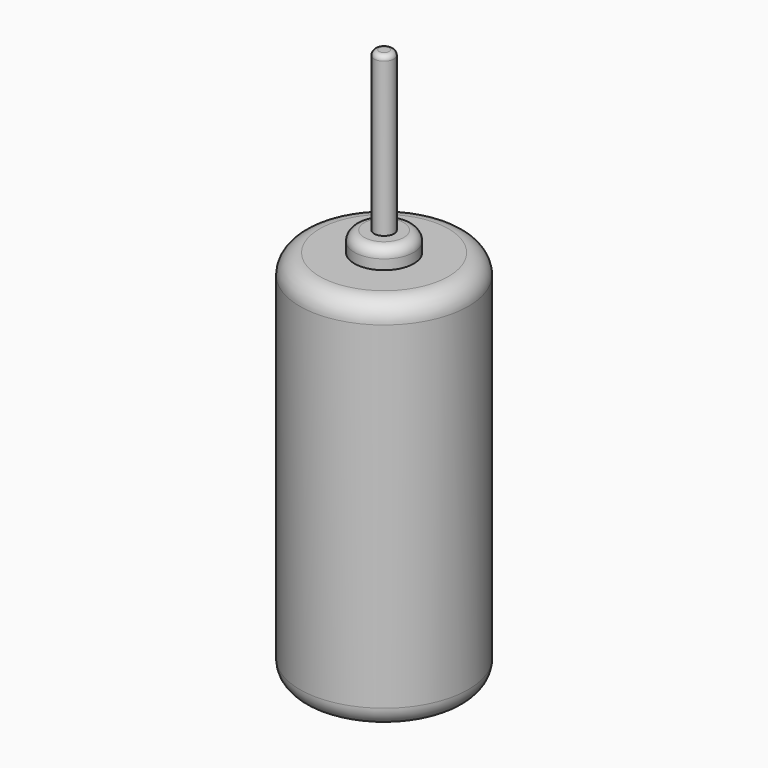
from build123d import *

# Parameters (mm, degrees)
F0_R     = 4.25
F1_DEPTH = 19
F2_R     = 1
F3_R     = 1.5
F4_DEPTH = 1
F5_R     = 0.5
F7_R     = 0.5
F8_DEPTH = 8
F9_R     = 0.25


with BuildPart() as f1:
    # F0 (on Top) → F1 (new body)
    with BuildSketch(Plane.XY):
        Circle(F0_R)
    extrude(amount=F1_DEPTH)

    # F2
    f2_edges = [f1.edges().sort_by_distance(p)[0] for p in [
        (-4.25, 0, 19),
        (-4.25, 0, 0),
    ]]
    fillet(f2_edges, radius=F2_R)

    # F3 (on face) → F4 (join)
    with BuildSketch(Plane.XY.offset(19)):
        Circle(F3_R)
    extrude(amount=F4_DEPTH)

    # F5
    f5_edges = [f1.edges().sort_by_distance(p)[0] for p in [
        (-1.5, 0, 20),
    ]]
    fillet(f5_edges, radius=F5_R)

    # F7 (on face) → F8 (join)
    with BuildSketch(Plane.XY.offset(20)):
        Circle(F7_R)
    extrude(amount=F8_DEPTH)

    # F9
    f9_edges = [f1.edges().sort_by_distance(p)[0] for p in [
        (-0.5, 0, 28),
    ]]
    fillet(f9_edges, radius=F9_R)


solid = f1.part
